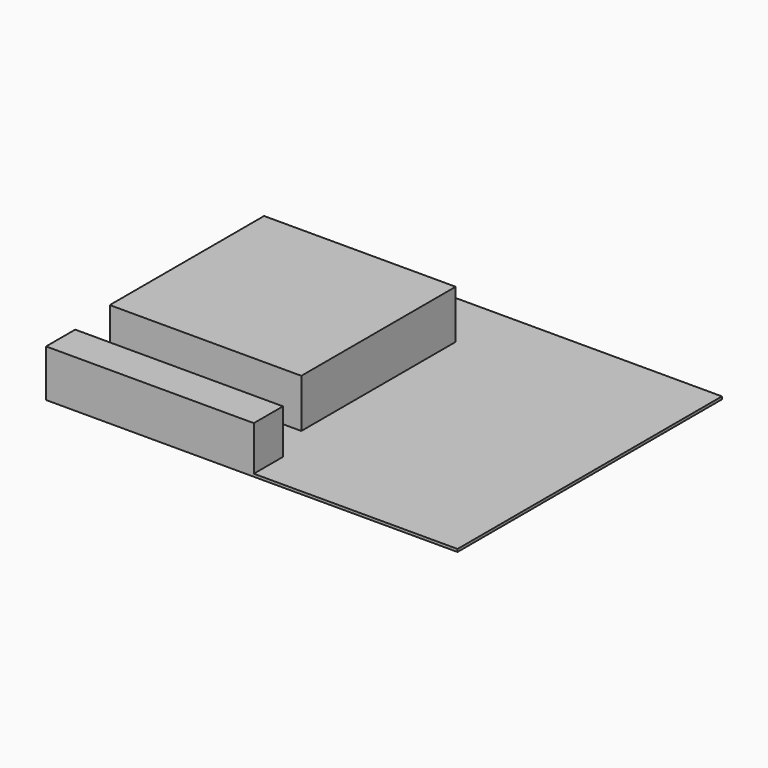
from build123d import *

# Parameters (mm, degrees)
F1_DEPTH = 2
F0_W     = 142
F0_H     = 143
F2_DEPTH = 38
F0_W_2   = 154
F0_H_2   = 27
F3_DEPTH = 35


with BuildPart() as f1:
    # F0 (on Top) → F1 (new body)
    with BuildSketch(Plane.XY):
        Polygon((152.5, 122.5), (-152.5, 122.5), (-152.5, 79.5), (-10.5, 79.5), (-10.5, -63.5), (-152.5, -63.5), (-152.5, -95.5), (1.5, -95.5), (1.5, -122.5), (152.5, -122.5), align=None)
    extrude(amount=F1_DEPTH)

    # F0 (on Top) → F2 (join)
    with BuildSketch(Plane.XY):
        with Locations((-81.5, 8)):
            Rectangle(F0_W, F0_H)
    extrude(amount=F2_DEPTH)

    # F0 (on Top) → F3 (join)
    with BuildSketch(Plane.XY):
        with Locations((-75.5, -109)):
            Rectangle(F0_W_2, F0_H_2)
    extrude(amount=F3_DEPTH)


solid = f1.part
